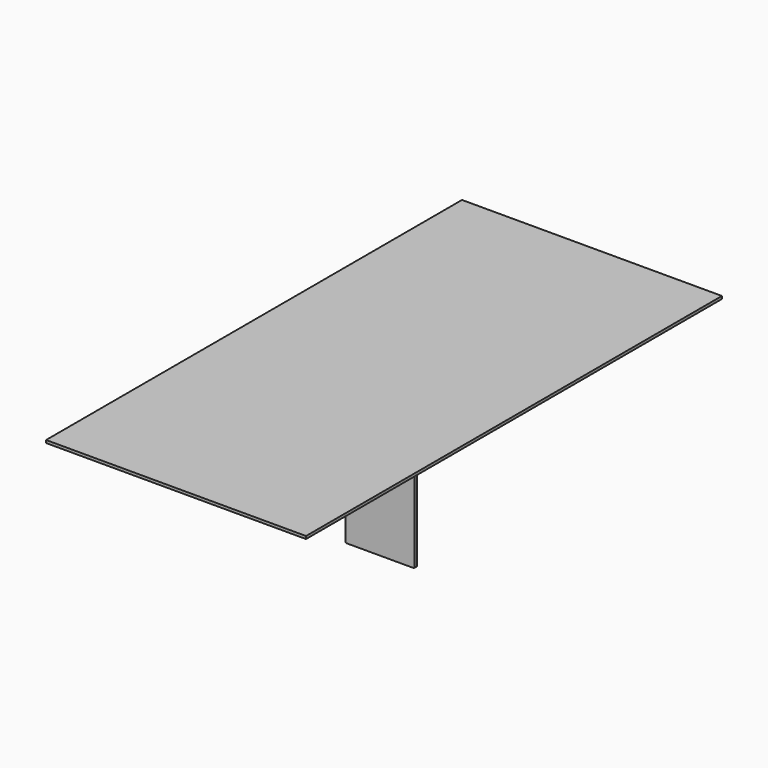
from build123d import *

# Parameters (mm, degrees)
F0_W     = 1219.2
F0_H     = 2438.4
F1_DEPTH = 12.7
F2_W     = 323.85
F2_H     = 422.275
F3_DEPTH = 12.7
F4_R     = 5.08


with BuildPart() as f1:
    # F0 (on Top) → F1 (new body)
    with BuildSketch(Plane.XY):
        with Locations((-21.803675, 361.570789)):
            Rectangle(F0_W, F0_H)
    extrude(amount=F1_DEPTH)


with BuildPart() as f3:
    # F2 (on Front) → F3 (new body)
    with BuildSketch(Plane.XZ):
        with Locations((259.358545, -307.615135)):
            Rectangle(F2_W, F2_H)
    extrude(amount=F3_DEPTH)

    # F4
    f4_edges = [f3.edges().sort_by_distance(p)[0] for p in [
        (421.283545, -6.35, -518.752635),
        (97.433545, -6.35, -518.752635),
        (97.433545, -6.35, -96.477635),
        (421.283545, -6.35, -96.477635),
    ]]
    fillet(f4_edges, radius=F4_R)


solid = Compound([f1.part, f3.part])
